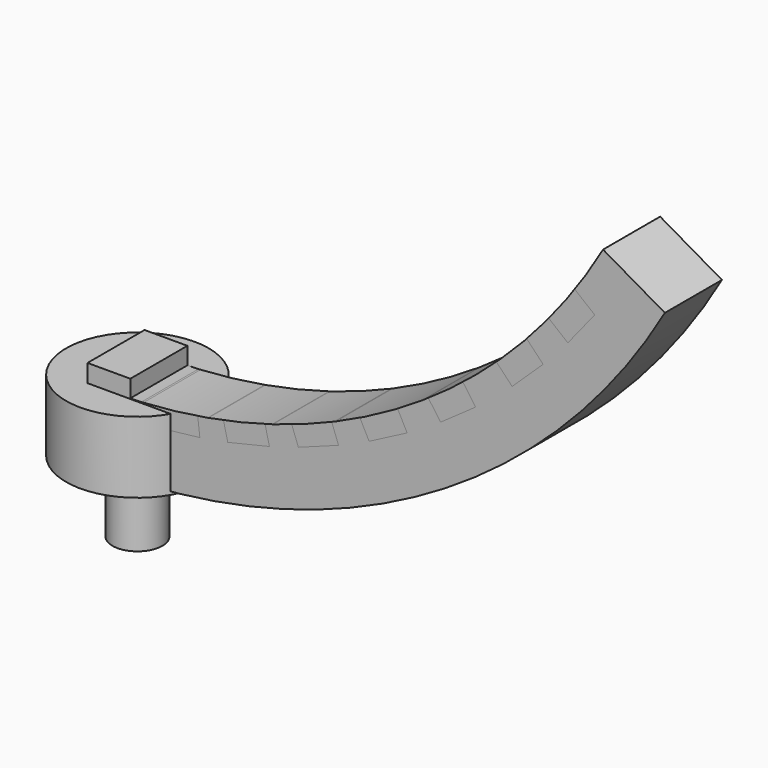
from build123d import *

# Parameters (mm, degrees)
SKETCH002_R                = 10
EXTRUDE003_DEPTH           = 10
EXTRUDE004_DEPTH           = 5
SKETCH004_R                = 3.5
EXTRUDE005_DEPTH           = 10
SKETCH006_W                = 6
SKETCH006_H                = 10
EXTRUDE007_DEPTH           = 2.5
SKETCH_R                   = 3.5
EXTRUDE001_DEPTH           = 10
SKETCH012_W                = 6
SKETCH012_H                = 10
EXTRUDE013_DEPTH           = 2.5
EXTRUDE013_PLACEMENT_ANGLE = 51.18
SKETCH011_W                = 6
SKETCH011_H                = 10
EXTRUDE012_DEPTH           = 2.5
EXTRUDE012_PLACEMENT_ANGLE = 43.68
SKETCH010_W                = 6
SKETCH010_H                = 10
EXTRUDE011_DEPTH           = 2.5
EXTRUDE011_PLACEMENT_ANGLE = 35.16
SKETCH009_W                = 6
SKETCH009_H                = 10
EXTRUDE010_DEPTH           = 2.5
EXTRUDE010_PLACEMENT_ANGLE = 27.42
SKETCH008_W                = 6
SKETCH008_H                = 10
EXTRUDE009_DEPTH           = 2.5
EXTRUDE009_PLACEMENT_ANGLE = 20.22
SKETCH007_W                = 6
SKETCH007_H                = 10
EXTRUDE008_DEPTH           = 2.5
EXTRUDE008_PLACEMENT_ANGLE = 13.32
SKETCH005_W                = 6
SKETCH005_H                = 10
EXTRUDE006_DEPTH           = 2.5
EXTRUDE006_PLACEMENT_ANGLE = 6.6
EXTRUDE002_DEPTH           = 5


with BuildPart() as extrude003:
    # Sketch002 → Extrude003 (new body)
    with BuildSketch(Plane.XY):
        Circle(SKETCH002_R)
    extrude(amount=EXTRUDE003_DEPTH)


with BuildPart() as extrude004:
    # Sketch003 → Extrude004 (new body, symmetric)
    with BuildSketch(Plane.XZ):
        with BuildLine():
            ThreePointArc((0, 0), (45.00001, 12.057678), (77.942322, 44.999938))
            Line((69.282072, 49.999945), (77.942322, 44.999938))
            ThreePointArc((0, 10), (40.000013, 20.717934), (69.282072, 49.999945))
            Line((0, 10), (0, 0))
        make_face()
    extrude(amount=EXTRUDE004_DEPTH, both=True)


with BuildPart() as fusion001:
    # Sketch004 → Extrude005 (new body, symmetric)
    with BuildSketch(Plane.XY):
        Circle(SKETCH004_R)
    extrude(amount=EXTRUDE005_DEPTH, both=True)

    # Fusion001: union Extrude004
    add(extrude004.part)


with BuildPart() as extrude007:
    # Sketch006 → Extrude007 (new body, symmetric)
    with BuildSketch(Plane.XY):
        Rectangle(SKETCH006_W, SKETCH006_H)
    extrude(amount=EXTRUDE007_DEPTH, both=True)


with BuildPart() as extrude007_1:
    # Extrude007 placement: moved
    add(extrude007.part.moved(Location((0, 0, 10))))


with BuildPart() as extrude001:
    # Sketch → Extrude001 (new body, symmetric)
    with BuildSketch(Plane.XY):
        Circle(SKETCH_R)
    extrude(amount=EXTRUDE001_DEPTH, both=True)


with BuildPart() as extrude013:
    # Sketch012 → Extrude013 (new body, symmetric)
    with BuildSketch(Plane.XY):
        Rectangle(SKETCH012_W, SKETCH012_H)
    extrude(amount=EXTRUDE013_DEPTH, both=True)


with BuildPart() as extrude013_1:
    # Extrude013 placement: moved
    add(extrude013.part.moved(Location((64.277333, 0, 40.782745))).rotate(Axis((64.277333, 0, 40.782745), (0, -1, 0)), EXTRUDE013_PLACEMENT_ANGLE))


with BuildPart() as extrude012:
    # Sketch011 → Extrude012 (new body, symmetric)
    with BuildSketch(Plane.XY):
        Rectangle(SKETCH011_W, SKETCH011_H)
    extrude(amount=EXTRUDE012_DEPTH, both=True)


with BuildPart() as extrude012_1:
    # Extrude012 placement: moved
    add(extrude012.part.moved(Location((56.976975, 0, 32.835318))).rotate(Axis((56.976975, 0, 32.835318), (0, -1, 0)), EXTRUDE012_PLACEMENT_ANGLE))


with BuildPart() as extrude011:
    # Sketch010 → Extrude011 (new body, symmetric)
    with BuildSketch(Plane.XY):
        Rectangle(SKETCH010_W, SKETCH010_H)
    extrude(amount=EXTRUDE011_DEPTH, both=True)


with BuildPart() as extrude011_1:
    # Extrude011 placement: moved
    add(extrude011.part.moved(Location((47.50859, 0, 25.052362))).rotate(Axis((47.50859, 0, 25.052362), (0, -1, 0)), EXTRUDE011_PLACEMENT_ANGLE))


with BuildPart() as extrude010:
    # Sketch009 → Extrude010 (new body, symmetric)
    with BuildSketch(Plane.XY):
        Rectangle(SKETCH009_W, SKETCH009_H)
    extrude(amount=EXTRUDE010_DEPTH, both=True)


with BuildPart() as extrude010_1:
    # Extrude010 placement: moved
    add(extrude010.part.moved(Location((37.992047, 0, 19.268488))).rotate(Axis((37.992047, 0, 19.268488), (0, -1, 0)), EXTRUDE010_PLACEMENT_ANGLE))


with BuildPart() as extrude009:
    # Sketch008 → Extrude009 (new body, symmetric)
    with BuildSketch(Plane.XY):
        Rectangle(SKETCH008_W, SKETCH008_H)
    extrude(amount=EXTRUDE009_DEPTH, both=True)


with BuildPart() as extrude009_1:
    # Extrude009 placement: moved
    add(extrude009.part.moved(Location((28.514126, 0, 15.084274))).rotate(Axis((28.514126, 0, 15.084274), (0, -1, 0)), EXTRUDE009_PLACEMENT_ANGLE))


with BuildPart() as extrude008:
    # Sketch007 → Extrude008 (new body, symmetric)
    with BuildSketch(Plane.XY):
        Rectangle(SKETCH007_W, SKETCH007_H)
    extrude(amount=EXTRUDE008_DEPTH, both=True)


with BuildPart() as extrude008_1:
    # Extrude008 placement: moved
    add(extrude008.part.moved(Location((19.007128, 0, 12.219373))).rotate(Axis((19.007128, 0, 12.219373), (0, -1, 0)), EXTRUDE008_PLACEMENT_ANGLE))


with BuildPart() as extrude006:
    # Sketch005 → Extrude006 (new body, symmetric)
    with BuildSketch(Plane.XY):
        Rectangle(SKETCH005_W, SKETCH005_H)
    extrude(amount=EXTRUDE006_DEPTH, both=True)


with BuildPart() as extrude006_1:
    # Extrude006 placement: moved
    add(extrude006.part.moved(Location((9.482315, 0, 10.546747))).rotate(Axis((9.482315, 0, 10.546747), (0, -1, 0)), EXTRUDE006_PLACEMENT_ANGLE))


with BuildPart() as fusion:
    # Sketch001 → Extrude002 (new body, symmetric)
    with BuildSketch(Plane.XZ):
        with BuildLine():
            ThreePointArc((0, 0), (45.00001, 12.057678), (77.942322, 44.999938))
            Line((69.282072, 49.999945), (77.942322, 44.999938))
            ThreePointArc((0, 10), (40.000013, 20.717934), (69.282072, 49.999945))
            Line((0, 10), (0, 0))
        make_face()
    extrude(amount=EXTRUDE002_DEPTH, both=True)

    # Cut: cut Extrude006
    add(extrude006_1.part, mode=Mode.SUBTRACT)

    # Cut001: cut Extrude008
    add(extrude008_1.part, mode=Mode.SUBTRACT)

    # Cut002: cut Extrude009
    add(extrude009_1.part, mode=Mode.SUBTRACT)

    # Cut003: cut Extrude010
    add(extrude010_1.part, mode=Mode.SUBTRACT)

    # Cut004: cut Extrude011
    add(extrude011_1.part, mode=Mode.SUBTRACT)

    # Cut005: cut Extrude012
    add(extrude012_1.part, mode=Mode.SUBTRACT)

    # Cut006: cut Extrude013
    add(extrude013_1.part, mode=Mode.SUBTRACT)

    # Fusion: union Extrude001
    add(extrude001.part)


solid = Compound([extrude003.part, fusion001.part, extrude007_1.part, fusion.part])
